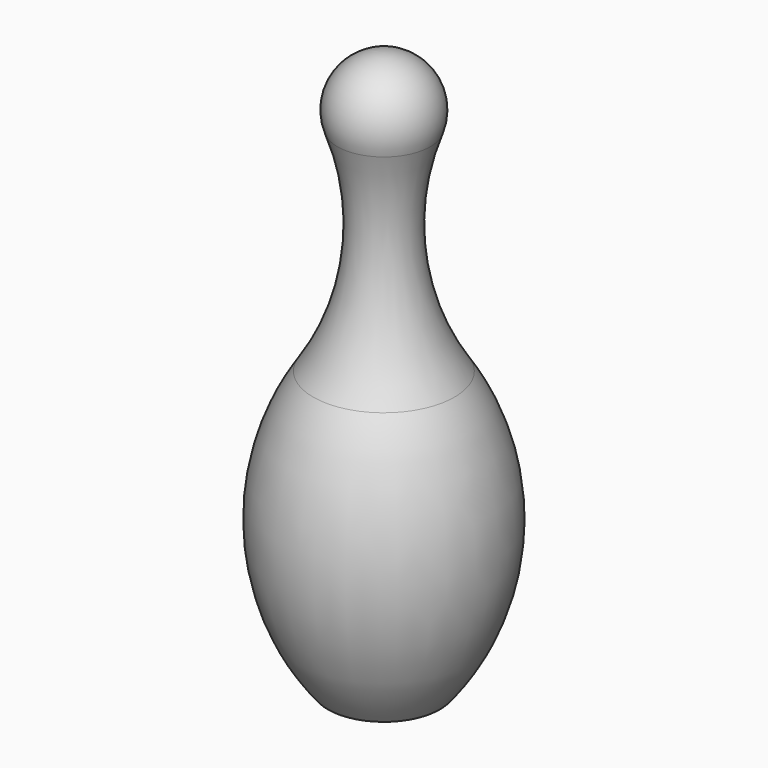
from build123d import *

# Parameters (mm, degrees)
F2_T = -5


with BuildPart() as f1:
    # F0 (on Front) → F1 (revolve)
    with BuildSketch(Plane.XZ):
        with BuildLine():
            Line((-25, -125), (0, -125))
            Line((0, -125), (0, 125))
            ThreePointArc((0, 125), (-18.2456196083, 115.4417277094), (-20.7752386162, 95))
            ThreePointArc((-20.7752386162, 95), (-14.7381173167, 46.1985321612), (-31.5822772233, 0))
            ThreePointArc((-31.5822772233, 0), (-48.9540387536, -63.5880714958), (-25, -125))
        make_face()
    revolve(axis=Axis((0, 0, 0), (0, 0, 1)))

    # F2 (hollow: no face is removed)
    offset(amount=F2_T, kind=Kind.INTERSECTION, mode=Mode.SUBTRACT)


solid = f1.part
